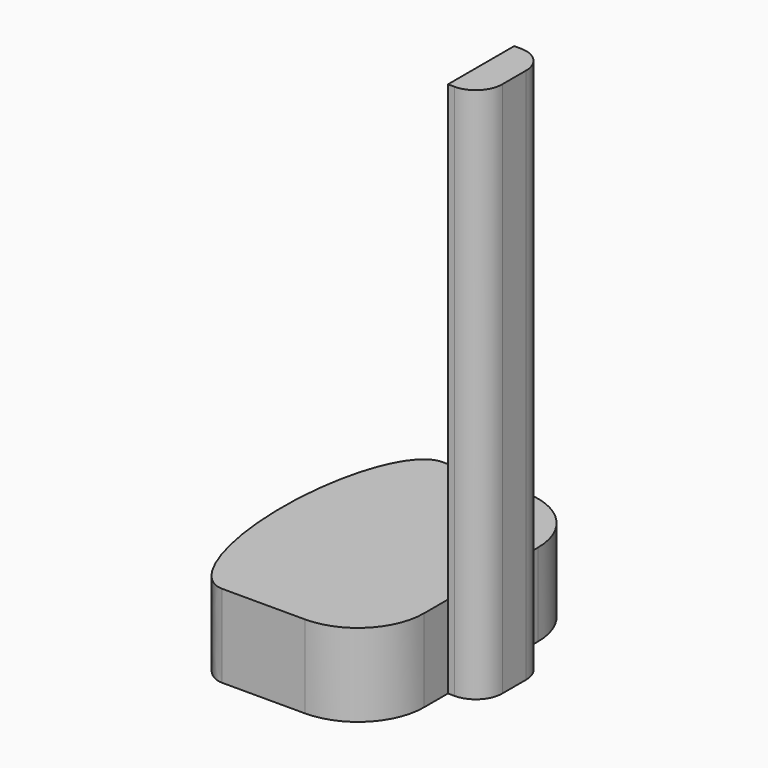
from build123d import *

# Parameters (mm, degrees)
F1_DEPTH = 250
F3_DEPTH = 1620


with BuildPart() as f1:
    # F0 (on Top) → F1 (new body)
    with BuildSketch(Plane.XY):
        with BuildLine():
            Line((-200, 415), (-450, 415))
            add(Edge.make_bspline(
                [(-450, 415), (-600, 415), (-600, 0), (-600, -415), (-450, -415)],
                knots=[0, 0, 0, 1.5707963268, 1.5707963268, 3.1415926536, 3.1415926536, 3.1415926536], degree=2, weights=[1, 0.7071067812, 1, 0.7071067812, 1]))
            Line((-450, -415), (-200, -415))
            ThreePointArc((-200, -415), (-58.5786437627, -356.4213562373), (0, -215))
            Line((0, -215), (0, 215))
            ThreePointArc((0, 215), (-58.5786437627, 356.4213562373), (-200, 415))
        make_face()
    extrude(amount=F1_DEPTH)

    # F2 (on Top) → F3 (join)
    with BuildSketch(Plane.XY):
        with BuildLine():
            Line((20, 125), (0, 125))
            Line((0, 125), (0, -125))
            Line((0, -125), (20, -125))
            ThreePointArc((20, -125), (76.5685424949, -101.5685424949), (100, -45))
            Line((100, -45), (100, 45))
            ThreePointArc((100, 45), (76.5685424949, 101.5685424949), (20, 125))
        make_face()
    extrude(amount=F3_DEPTH)


solid = f1.part
